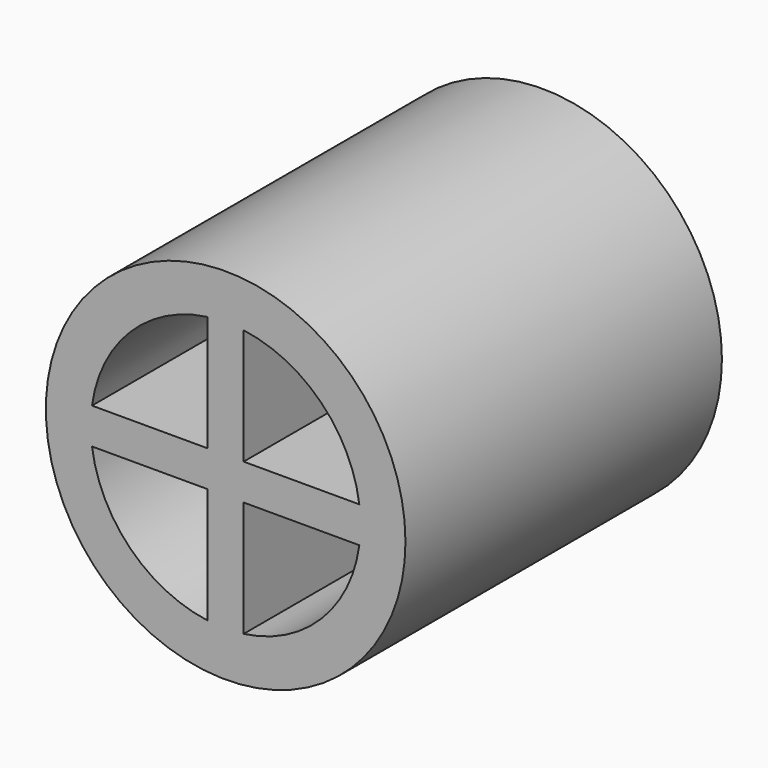
from build123d import *

# Parameters (mm, degrees)
F0_R     = 12.7
F0_W     = 2.54
F0_H     = 2.54
F1_DEPTH = 27.94


with BuildPart() as f1:
    # F0 (on Front) → F1 (new body)
    with BuildSketch(Plane.XZ):
        Circle(F0_R)
        with BuildLine():
            ThreePointArc((1.27, 9.4399536545), (6.7351920908, 6.7351920908), (9.4399536545, 1.27))
            Line((9.4399536545, 1.27), (11.43, 1.27))
            Line((11.43, 1.27), (11.43, -1.27))
            Line((11.43, -1.27), (9.4399536545, -1.27))
            ThreePointArc((9.4399536545, -1.27), (6.7351920908, -6.7351920908), (1.27, -9.4399536545))
            Line((1.27, -9.4399536545), (1.27, -11.43))
            Line((1.27, -11.43), (-1.27, -11.43))
            Line((-1.27, -11.43), (-1.27, -9.4399536545))
            ThreePointArc((-1.27, -9.4399536545), (-6.7351920908, -6.7351920908), (-9.4399536545, -1.27))
            Line((-9.4399536545, -1.27), (-11.43, -1.27))
            Line((-11.43, -1.27), (-11.43, 1.27))
            Line((-11.43, 1.27), (-9.4399536545, 1.27))
            ThreePointArc((-9.4399536545, 1.27), (-6.7351920908, 6.7351920908), (-1.27, 9.4399536545))
            Line((-1.27, 9.4399536545), (-1.27, 11.43))
            Line((-1.27, 11.43), (1.27, 11.43))
            Line((1.27, 11.43), (1.27, 9.4399536545))
        make_face(mode=Mode.SUBTRACT)
        with BuildLine():
            ThreePointArc((9.4399536545, -1.27), (9.5037146306, -0.6364222028), (9.525, 0))
            ThreePointArc((9.525, 0), (9.5037146306, 0.6364222028), (9.4399536545, 1.27))
            Line((9.4399536545, 1.27), (1.27, 1.27))
            Line((1.27, 1.27), (1.27, -1.27))
            Line((1.27, -1.27), (9.4399536545, -1.27))
        make_face()
        with BuildLine():
            Line((-1.27, -1.27), (-1.27, 1.27))
            Line((-1.27, 1.27), (-9.4399536545, 1.27))
            ThreePointArc((-9.4399536545, 1.27), (-9.525, 0), (-9.4399536545, -1.27))
            Line((-9.4399536545, -1.27), (-1.27, -1.27))
        make_face()
        with BuildLine():
            Line((1.27, 1.27), (1.27, 9.4399536545))
            ThreePointArc((1.27, 9.4399536545), (0, 9.525), (-1.27, 9.4399536545))
            Line((-1.27, 9.4399536545), (-1.27, 1.27))
            Line((-1.27, 1.27), (1.27, 1.27))
        make_face()
        with BuildLine():
            ThreePointArc((-1.27, -9.4399536545), (0, -9.525), (1.27, -9.4399536545))
            Line((1.27, -9.4399536545), (1.27, -1.27))
            Line((1.27, -1.27), (-1.27, -1.27))
            Line((-1.27, -1.27), (-1.27, -9.4399536545))
        make_face()
        Rectangle(F0_W, F0_H)
        with BuildLine():
            ThreePointArc((-9.4399536545, -1.27), (-9.525, 0), (-9.4399536545, 1.27))
            Line((-9.4399536545, 1.27), (-11.43, 1.27))
            Line((-11.43, 1.27), (-11.43, -1.27))
            Line((-11.43, -1.27), (-9.4399536545, -1.27))
        make_face()
        with BuildLine():
            ThreePointArc((-1.27, 9.4399536545), (0, 9.525), (1.27, 9.4399536545))
            Line((1.27, 9.4399536545), (1.27, 11.43))
            Line((1.27, 11.43), (-1.27, 11.43))
            Line((-1.27, 11.43), (-1.27, 9.4399536545))
        make_face()
        with BuildLine():
            Line((1.27, -11.43), (1.27, -9.4399536545))
            ThreePointArc((1.27, -9.4399536545), (0, -9.525), (-1.27, -9.4399536545))
            Line((-1.27, -9.4399536545), (-1.27, -11.43))
            Line((-1.27, -11.43), (1.27, -11.43))
        make_face()
        with BuildLine():
            ThreePointArc((9.4399536545, 1.27), (9.5037146306, 0.6364222028), (9.525, 0))
            ThreePointArc((9.525, 0), (9.5037146306, -0.6364222028), (9.4399536545, -1.27))
            Line((9.4399536545, -1.27), (11.43, -1.27))
            Line((11.43, -1.27), (11.43, 1.27))
            Line((11.43, 1.27), (9.4399536545, 1.27))
        make_face()
    extrude(amount=F1_DEPTH)


solid = f1.part
